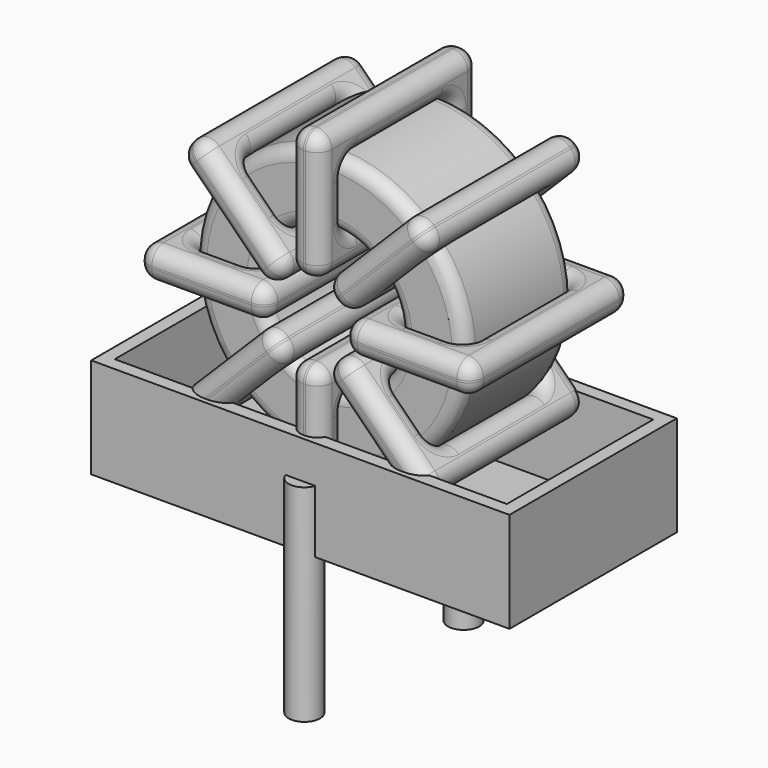
from build123d import *

# Parameters (mm, degrees)
SKETCH001_R       = 0.6
PAD001_DEPTH      = 1.2
PAD001_DEPTH_BACK = 6.7
SKETCH_R          = 5.2
SKETCH_R_2        = 2.666667
PAD_DEPTH         = 2.61
FILLET_R          = 0.5
SKETCH003_W       = 4.933333
SKETCH003_H       = 7.62
SKETCH003_W_2     = 2.533333
SKETCH003_H_2     = 5.22
PAD002_DEPTH      = 0.6
FILLET001_R       = 0.564
SKETCH004_W       = 4.933333
SKETCH004_H       = 7.62
SKETCH004_W_2     = 2.533333
SKETCH004_H_2     = 5.22
PAD003_DEPTH      = 0.6
FILLET002_R       = 0.564
SKETCH005_W       = 4.933333
SKETCH005_H       = 7.62
SKETCH005_W_2     = 2.533333
SKETCH005_H_2     = 5.22
PAD004_DEPTH      = 0.6
FILLET003_R       = 0.564
SKETCH006_W       = 4.933333
SKETCH006_H       = 7.62
SKETCH006_W_2     = 2.533333
SKETCH006_H_2     = 5.22
PAD005_DEPTH      = 0.6
FILLET004_R       = 0.564
SKETCH007_W       = 16
SKETCH007_H       = 8
PAD006_DEPTH      = 0.5
SKETCH008_W       = 16
SKETCH008_H       = 8
SKETCH008_W_2     = 15
SKETCH008_H_2     = 7
PAD007_DEPTH      = 3.84


with BuildPart() as pad001:
    # Sketch001 → Pad001 (new body, two sides)
    with BuildSketch(Plane.XY.offset(1.7)) as pad001_sk:
        Circle(SKETCH001_R)
        with Locations((0, -7.62)):
            Circle(SKETCH001_R)
    extrude(amount=PAD001_DEPTH)
    extrude(pad001_sk.sketch, amount=-PAD001_DEPTH_BACK)


with BuildPart() as fillet_body:
    # Sketch → Pad (new body, symmetric)
    with BuildSketch(Plane.XZ.offset(3.81)):
        with Locations((0, 8.1)):
            Circle(SKETCH_R)
        with Locations((0, 8.1)):
            Circle(SKETCH_R_2, mode=Mode.SUBTRACT)
    extrude(amount=PAD_DEPTH, both=True)

    # Fillet
    fillet_edges = [fillet_body.edges().sort_by_distance(p)[0] for p in [
        (-2.666667, -6.42, 8.1),
        (-5.2, -6.42, 8.1),
        (-5.2, -1.2, 8.1),
    ]]
    fillet(fillet_edges, radius=FILLET_R)


with BuildPart() as fillet001:
    # Sketch003 → Pad002 (new body, symmetric)
    with BuildSketch(Plane(origin=(0, 0, 8.1), x_dir=(1, 0, 0), z_dir=(0, 0, -1))):
        with Locations((-3.933333, 3.81)):
            Rectangle(SKETCH003_W, SKETCH003_H)
        with Locations((-3.933333, 3.81)):
            Rectangle(SKETCH003_W_2, SKETCH003_H_2, mode=Mode.SUBTRACT)
        with Locations((3.933333, 3.81)):
            Rectangle(SKETCH003_W, SKETCH003_H)
        with Locations((3.933333, 3.81)):
            Rectangle(SKETCH003_W_2, SKETCH003_H_2, mode=Mode.SUBTRACT)
    extrude(amount=PAD002_DEPTH, both=True)

    # Fillet001
    fillet001_edges = [fillet001.edges().sort_by_distance(p)[0] for p in [
        (-2.666667, -6.42, 8.1),
        (-2.666667, -1.2, 8.1),
        (-2.666667, -3.81, 8.7),
        (-2.666667, -3.81, 7.5),
        (-6.4, -7.62, 8.1),
        (-1.466667, -7.62, 8.1),
        (-3.933333, -7.62, 8.7),
        (-3.933333, -7.62, 7.5),
        (-1.466667, 0, 8.1),
        (-1.466667, -3.81, 8.7),
        (-1.466667, -3.81, 7.5),
        (2.666667, -6.42, 8.1),
        (5.2, -6.42, 8.1),
        (3.933333, -6.42, 8.7),
        (3.933333, -6.42, 7.5),
        (5.2, -1.2, 8.1),
        (5.2, -3.81, 8.7),
        (5.2, -3.81, 7.5),
        (1.466667, -7.62, 8.1),
        (6.4, -7.62, 8.1),
        (3.933333, -7.62, 8.7),
        (3.933333, -7.62, 7.5),
        (6.4, 0, 8.1),
        (6.4, -3.81, 8.7),
        (6.4, -3.81, 7.5),
        (-5.2, -6.42, 8.1),
        (-3.933333, -6.42, 8.7),
        (-3.933333, -6.42, 7.5),
        (2.666667, -1.2, 8.1),
        (2.666667, -3.81, 8.7),
        (2.666667, -3.81, 7.5),
        (3.933333, -1.2, 8.7),
        (3.933333, -1.2, 7.5),
        (1.466667, 0, 8.1),
        (3.933333, 0, 8.7),
        (3.933333, 0, 7.5),
        (1.466667, -3.81, 8.7),
        (1.466667, -3.81, 7.5),
        (-6.4, 0, 8.1),
        (-3.933333, 0, 8.7),
        (-3.933333, 0, 7.5),
        (-6.4, -3.81, 8.7),
        (-6.4, -3.81, 7.5),
        (-5.2, -1.2, 8.1),
        (-5.2, -3.81, 8.7),
        (-5.2, -3.81, 7.5),
        (-3.933333, -1.2, 8.7),
        (-3.933333, -1.2, 7.5),
    ]]
    fillet(fillet001_edges, radius=FILLET001_R)


with BuildPart() as fillet002:
    # Sketch004 → Pad003 (new body, symmetric)
    with BuildSketch(Plane(origin=(0, 0, 8.1), x_dir=(0.707108, 0, 0.707106), z_dir=(0.707106, 0, -0.707108))):
        with Locations((-3.933333, 3.81)):
            Rectangle(SKETCH004_W, SKETCH004_H)
        with Locations((-3.933333, 3.81)):
            Rectangle(SKETCH004_W_2, SKETCH004_H_2, mode=Mode.SUBTRACT)
        with Locations((3.933333, 3.81)):
            Rectangle(SKETCH004_W, SKETCH004_H)
        with Locations((3.933333, 3.81)):
            Rectangle(SKETCH004_W_2, SKETCH004_H_2, mode=Mode.SUBTRACT)
    extrude(amount=PAD003_DEPTH, both=True)

    # Fillet002
    fillet002_edges = [fillet002.edges().sort_by_distance(p)[0] for p in [
        (-1.88562, -6.42, 6.214384),
        (-1.88562, -1.2, 6.214384),
        (-2.309884, -3.81, 6.638649),
        (-1.461357, -3.81, 5.79012),
        (-4.525489, -7.62, 3.574522),
        (-1.037091, -7.62, 7.062911),
        (-3.205553, -7.62, 5.742981),
        (-2.357026, -7.62, 4.894452),
        (-1.037091, 0, 7.062911),
        (-1.461355, -3.81, 7.487176),
        (-0.612828, -3.81, 6.638647),
        (1.88562, -1.2, 9.985616),
        (1.88562, -6.42, 9.985616),
        (1.461357, -3.81, 10.40988),
        (2.309884, -3.81, 9.561351),
        (3.67696, -1.2, 11.776951),
        (2.357026, -1.2, 11.305548),
        (3.205553, -1.2, 10.457019),
        (1.037091, -7.62, 9.137089),
        (4.525489, -7.62, 12.625478),
        (2.357026, -7.62, 11.305548),
        (3.205553, -7.62, 10.457019),
        (4.525489, 0, 12.625478),
        (4.101225, -3.81, 13.049743),
        (4.949752, -3.81, 12.201214),
        (-3.67696, -6.42, 4.423049),
        (-3.205553, -6.42, 5.742981),
        (-2.357026, -6.42, 4.894452),
        (3.67696, -6.42, 11.776951),
        (2.357026, -6.42, 11.305548),
        (3.205553, -6.42, 10.457019),
        (3.252696, -3.81, 12.201216),
        (4.101223, -3.81, 11.352686),
        (1.037091, 0, 9.137089),
        (2.357026, 0, 11.305548),
        (3.205553, 0, 10.457019),
        (0.612828, -3.81, 9.561353),
        (1.461355, -3.81, 8.712824),
        (-4.525489, 0, 3.574522),
        (-3.205553, 0, 5.742981),
        (-2.357026, 0, 4.894452),
        (-4.949752, -3.81, 3.998786),
        (-4.101225, -3.81, 3.150257),
        (-3.67696, -1.2, 4.423049),
        (-4.101223, -3.81, 4.847314),
        (-3.252696, -3.81, 3.998784),
        (-3.205553, -1.2, 5.742981),
        (-2.357026, -1.2, 4.894452),
    ]]
    fillet(fillet002_edges, radius=FILLET002_R)


with BuildPart() as fillet003:
    # Sketch005 → Pad004 (new body, symmetric)
    with BuildSketch(Plane(origin=(0, 0, 8.1), x_dir=(0.707108, 0, -0.707106), z_dir=(-0.707106, 0, -0.707108))):
        with Locations((-3.933333, 3.81)):
            Rectangle(SKETCH005_W, SKETCH005_H)
        with Locations((-3.933333, 3.81)):
            Rectangle(SKETCH005_W_2, SKETCH005_H_2, mode=Mode.SUBTRACT)
        with Locations((3.933333, 3.81)):
            Rectangle(SKETCH005_W, SKETCH005_H)
        with Locations((3.933333, 3.81)):
            Rectangle(SKETCH005_W_2, SKETCH005_H_2, mode=Mode.SUBTRACT)
    extrude(amount=PAD004_DEPTH, both=True)

    # Fillet003
    fillet003_edges = [fillet003.edges().sort_by_distance(p)[0] for p in [
        (3.67696, -6.42, 4.423049),
        (3.67696, -1.2, 4.423049),
        (4.101223, -3.81, 4.847314),
        (3.252696, -3.81, 3.998784),
        (4.525489, 0, 3.574522),
        (1.037091, 0, 7.062911),
        (3.205553, 0, 5.742981),
        (2.357026, 0, 4.894452),
        (1.037091, -7.62, 7.062911),
        (1.461355, -3.81, 7.487176),
        (0.612828, -3.81, 6.638647),
        (-3.67696, -6.42, 11.776951),
        (-1.88562, -6.42, 9.985616),
        (-2.357026, -6.42, 11.305548),
        (-3.205553, -6.42, 10.457019),
        (-1.88562, -1.2, 9.985616),
        (-1.461357, -3.81, 10.40988),
        (-2.309884, -3.81, 9.561351),
        (-1.037091, 0, 9.137089),
        (-4.525489, 0, 12.625478),
        (-2.357026, 0, 11.305548),
        (-3.205553, 0, 10.457019),
        (-4.525489, -7.62, 12.625478),
        (-4.101225, -3.81, 13.049743),
        (-4.949752, -3.81, 12.201214),
        (1.88562, -6.42, 6.214384),
        (3.205553, -6.42, 5.742981),
        (2.357026, -6.42, 4.894452),
        (-3.67696, -1.2, 11.776951),
        (-3.252696, -3.81, 12.201216),
        (-4.101223, -3.81, 11.352686),
        (-2.357026, -1.2, 11.305548),
        (-3.205553, -1.2, 10.457019),
        (-1.037091, -7.62, 9.137089),
        (-2.357026, -7.62, 11.305548),
        (-3.205553, -7.62, 10.457019),
        (-0.612828, -3.81, 9.561353),
        (-1.461355, -3.81, 8.712824),
        (4.525489, -7.62, 3.574522),
        (3.205553, -7.62, 5.742981),
        (2.357026, -7.62, 4.894452),
        (4.949752, -3.81, 3.998786),
        (4.101225, -3.81, 3.150257),
        (1.88562, -1.2, 6.214384),
        (2.309884, -3.81, 6.638649),
        (1.461357, -3.81, 5.79012),
        (3.205553, -1.2, 5.742981),
        (2.357026, -1.2, 4.894452),
    ]]
    fillet(fillet003_edges, radius=FILLET003_R)


with BuildPart() as fillet004:
    # Sketch006 → Pad005 (new body, symmetric)
    with BuildSketch(Plane(origin=(0, 0, 8.1), x_dir=(0, 0, 1), z_dir=(1, 0, 0))):
        with Locations((-3.933333, 3.81)):
            Rectangle(SKETCH006_W, SKETCH006_H)
        with Locations((-3.933333, 3.81)):
            Rectangle(SKETCH006_W_2, SKETCH006_H_2, mode=Mode.SUBTRACT)
        with Locations((3.933333, 3.81)):
            Rectangle(SKETCH006_W, SKETCH006_H)
        with Locations((3.933333, 3.81)):
            Rectangle(SKETCH006_W_2, SKETCH006_H_2, mode=Mode.SUBTRACT)
    extrude(amount=PAD005_DEPTH, both=True)

    # Fillet004
    fillet004_edges = [fillet004.edges().sort_by_distance(p)[0] for p in [
        (0, -6.42, 13.3),
        (0, -1.2, 13.3),
        (-0.6, -3.81, 13.3),
        (0.6, -3.81, 13.3),
        (0, 0, 14.5),
        (0, 0, 9.566667),
        (-0.6, 0, 12.033333),
        (0.6, 0, 12.033333),
        (0, -7.62, 9.566667),
        (-0.6, -3.81, 9.566667),
        (0.6, -3.81, 9.566667),
        (0, -6.42, 2.9),
        (0, -6.42, 5.433333),
        (-0.6, -6.42, 4.166667),
        (0.6, -6.42, 4.166667),
        (0, -1.2, 5.433333),
        (-0.6, -3.81, 5.433333),
        (0.6, -3.81, 5.433333),
        (0, 0, 6.633333),
        (0, 0, 1.7),
        (-0.6, 0, 4.166667),
        (0.6, 0, 4.166667),
        (0, -7.62, 1.7),
        (-0.6, -3.81, 1.7),
        (0.6, -3.81, 1.7),
        (0, -6.42, 10.766667),
        (-0.6, -6.42, 12.033333),
        (0.6, -6.42, 12.033333),
        (0, -1.2, 2.9),
        (-0.6, -3.81, 2.9),
        (0.6, -3.81, 2.9),
        (-0.6, -1.2, 4.166667),
        (0.6, -1.2, 4.166667),
        (0, -7.62, 6.633333),
        (-0.6, -7.62, 4.166667),
        (0.6, -7.62, 4.166667),
        (-0.6, -3.81, 6.633333),
        (0.6, -3.81, 6.633333),
        (0, -7.62, 14.5),
        (-0.6, -7.62, 12.033333),
        (0.6, -7.62, 12.033333),
        (-0.6, -3.81, 14.5),
        (0.6, -3.81, 14.5),
        (0, -1.2, 10.766667),
        (-0.6, -3.81, 10.766667),
        (0.6, -3.81, 10.766667),
        (-0.6, -1.2, 12.033333),
        (0.6, -1.2, 12.033333),
    ]]
    fillet(fillet004_edges, radius=FILLET004_R)


with BuildPart() as pad006:
    # Sketch007 → Pad006 (new body)
    with BuildSketch(Plane.XY.offset(0.5)):
        with Locations((0, -3.81)):
            Rectangle(SKETCH007_W, SKETCH007_H)
    extrude(amount=PAD006_DEPTH)


with BuildPart() as pad007:
    # Sketch008 → Pad007 (new body)
    with BuildSketch(Plane.XY.offset(0.5)):
        with Locations((0, -3.81)):
            Rectangle(SKETCH008_W, SKETCH008_H)
        with Locations((0, -3.81)):
            Rectangle(SKETCH008_W_2, SKETCH008_H_2, mode=Mode.SUBTRACT)
    extrude(amount=PAD007_DEPTH)


solid = Compound([pad001.part, fillet_body.part, fillet001.part, fillet002.part, fillet003.part, fillet004.part, pad006.part, pad007.part])
